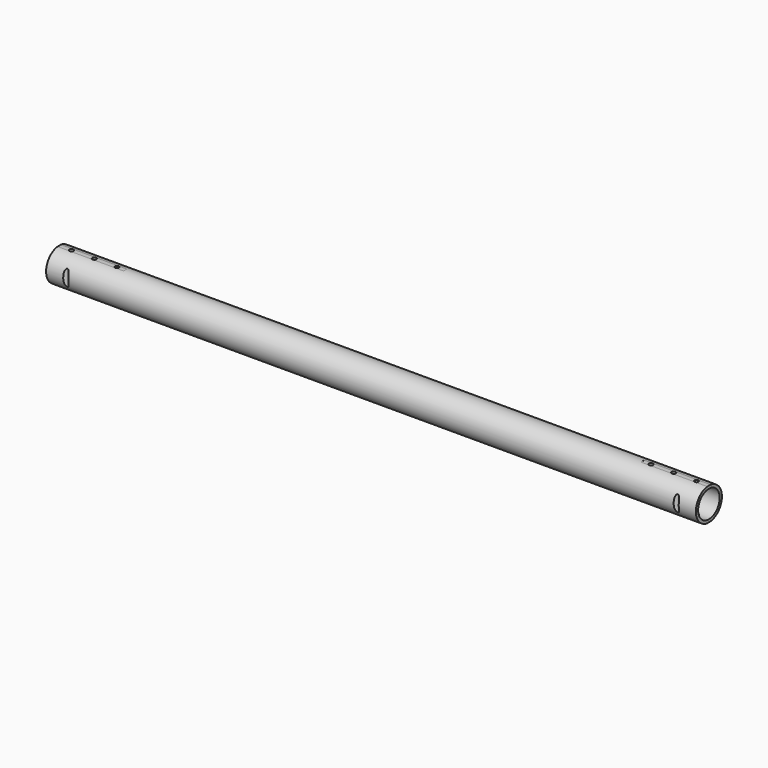
from build123d import *

# Parameters (mm, degrees)
F0_R     = 25
F0_R_2   = 20.6375
F1_DEPTH = 498.475
F2_W     = 6.35
F2_H     = 1.5875
F3_DEPTH = 101.6
F4_W     = 6.35
F4_H     = 1.5875
F5_DEPTH = 101.6
F7_D     = 6.35
F8_R     = 3.96875
F9_DEPTH = 49.798568


with BuildPart() as f1:
    # F0 (on Right) → F1 (new body, symmetric)
    with BuildSketch(Plane.YZ):
        Circle(F0_R)
        Circle(F0_R_2, mode=Mode.SUBTRACT)
    extrude(amount=F1_DEPTH, both=True)

    # F2 (on face) → F3 (cut)
    with BuildSketch(Plane(origin=(-498.475, 0, 0), x_dir=(0, -1, 0), z_dir=(-1, 0, 0))):
        with Locations((0, 25.591318)):
            Rectangle(F2_W, F2_H)
        with Locations((0, -25.591318)):
            Rectangle(F2_W, F2_H)
    extrude(amount=-F3_DEPTH, mode=Mode.SUBTRACT)

    # F4 (on face) → F5 (cut)
    with BuildSketch(Plane.YZ.offset(498.475)):
        with Locations((0, 25.591318)):
            Rectangle(F4_W, F4_H)
        with Locations((0, -25.591318)):
            Rectangle(F4_W, F4_H)
    extrude(amount=-F5_DEPTH, mode=Mode.SUBTRACT)

    # F7 (through all)
    with Locations(Plane.XY.offset(24.797568)):
        with Locations((-479.425, 0), (-444.5, 0), (-409.575, 0), (409.575, 0), (444.5, 0), (479.425, 0)):
            Hole(F7_D / 2)

    # F8 (on face) → F9 (cut, through all)
    with BuildSketch(Plane.XY.offset(24.797568)):
        with Locations((-468.3125, 25.79375)):
            Circle(F8_R)
        with Locations((-468.3125, -25.79375)):
            Circle(F8_R)
        with Locations((468.3125, 25.79375)):
            Circle(F8_R)
        with Locations((468.3125, -25.79375)):
            Circle(F8_R)
    extrude(amount=-F9_DEPTH, mode=Mode.SUBTRACT)


solid = f1.part
